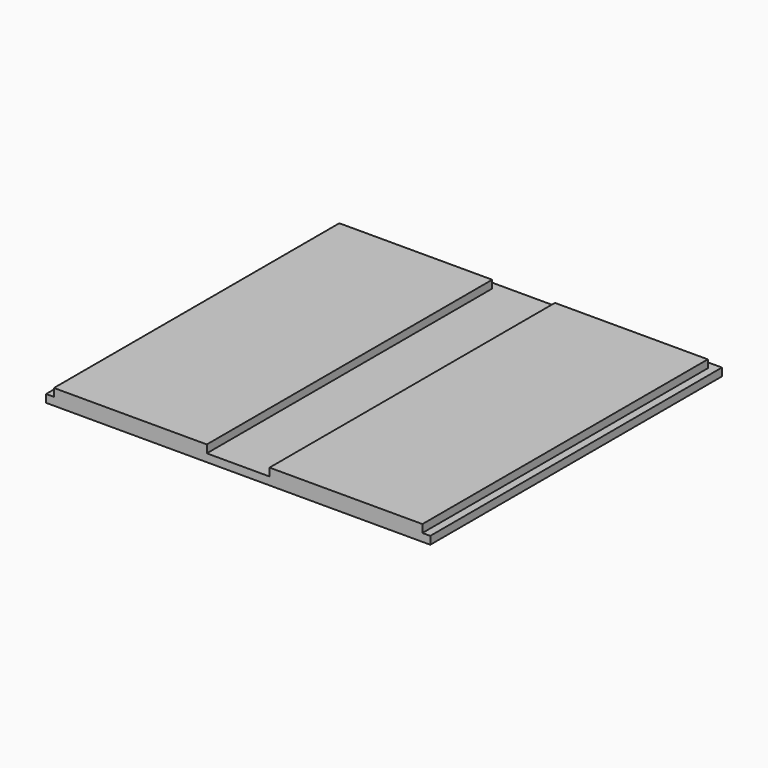
from build123d import *

# Parameters (mm, degrees)
F1_DEPTH = 6.35
F0_W     = 298.45
F0_H     = 288.925
F2_DEPTH = 12.7
F3_W     = 50.8
F3_H     = 6.35
F4_DEPTH = 295.276


with BuildPart() as f1:
    # F0 (on Top) → F1 (new body)
    with BuildSketch(Plane.XY):
        Polygon((0, 295.275), (0, 0), (6.35, 0), (6.35, 288.925), (304.8, 288.925), (304.8, 0), (311.15, 0), (311.15, 295.275), align=None)
    extrude(amount=F1_DEPTH)

    # F0 (on Top) → F2 (join)
    with BuildSketch(Plane.XY):
        with Locations((155.575, 144.4625)):
            Rectangle(F0_W, F0_H)
    extrude(amount=F2_DEPTH)

    # F3 (on face) → F4 (cut, through all)
    with BuildSketch(Plane.XZ):
        with Locations((155.575, 9.525)):
            Rectangle(F3_W, F3_H)
    extrude(amount=-F4_DEPTH, mode=Mode.SUBTRACT)


solid = f1.part
